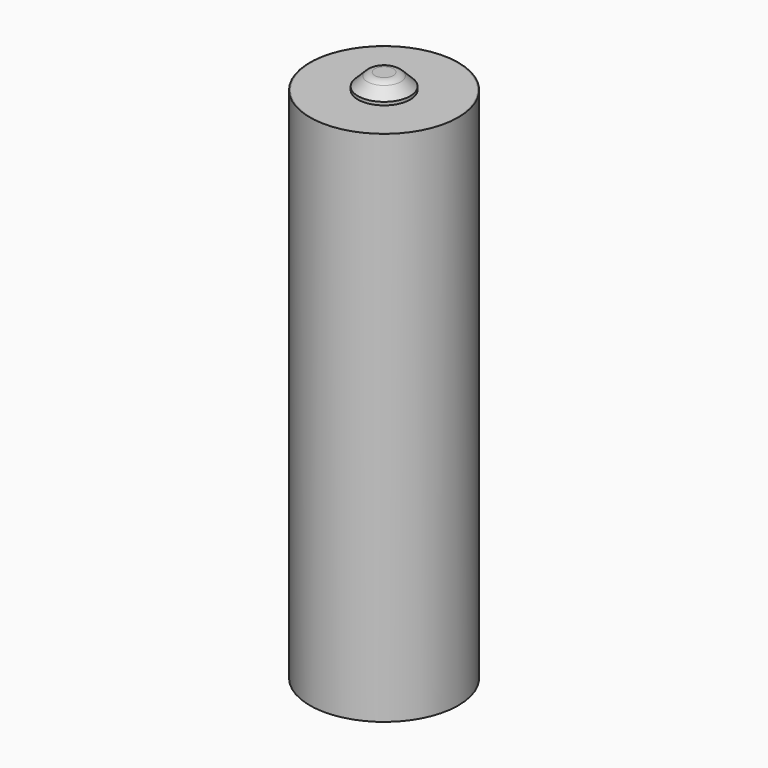
from build123d import *

# Parameters (mm, degrees)
SKETCH_R      = 7
PAD_DEPTH     = 49.5
SKETCH001_R   = 2.5
PAD001_DEPTH  = 1.5
CHAMFER_SIZE  = 1.2
FILLET_R      = 1
SKETCH002_R   = 7.1
SKETCH002_R_2 = 7
PAD002_DEPTH  = 49.5


with BuildPart() as mainbody:
    # Sketch → Pad (new body)
    with BuildSketch(Plane.XY):
        Circle(SKETCH_R)
    extrude(amount=PAD_DEPTH)

    # Sketch001 (on Face3 of Pad) → Pad001 (join)
    with BuildSketch(Plane.XY.offset(49.5)):
        Circle(SKETCH001_R)
    extrude(amount=PAD001_DEPTH)

    # Chamfer
    chamfer_edges = [mainbody.edges().sort_by_distance(p)[0] for p in [
        (-2.5, 0, 51),
    ]]
    chamfer(chamfer_edges, length=CHAMFER_SIZE)

    # Fillet
    fillet_edges = [mainbody.edges().sort_by_distance(p)[0] for p in [
        (-1.3, 0, 51),
    ]]
    fillet(fillet_edges, radius=FILLET_R)


with BuildPart() as body001:
    # Sketch002 → Pad002 (new body)
    with BuildSketch(Plane.XY):
        Circle(SKETCH002_R)
        Circle(SKETCH002_R_2, mode=Mode.SUBTRACT)
    extrude(amount=PAD002_DEPTH)


solid = Compound([mainbody.part, body001.part])
